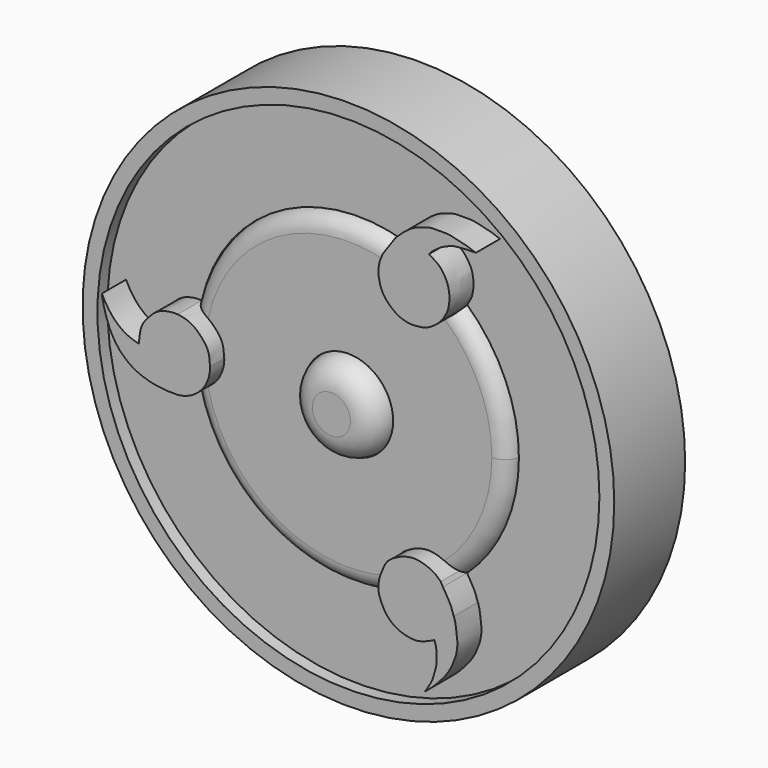
from build123d import *

# Parameters (mm, degrees)
F0_R     = 15
F0_R_2   = 14.1615233279
F1_DEPTH = 5
F0_R_3   = 2.5222476387
F2_DEPTH = 6
F3_DEPTH = 6.2
F4_DEPTH = 4.3
F5_R     = 0.9656854249
F6_R     = 1.4485281374


with BuildPart() as f1:
    # F0 (on Front) → F1 (new body)
    with BuildSketch(Plane.XZ):
        with Locations((15, 15)):
            Circle(F0_R)
        with Locations((15, 15)):
            Circle(F0_R_2, mode=Mode.SUBTRACT)
    extrude(amount=F1_DEPTH)


with BuildPart() as f1b:
    # F0 (on Front) → F1, piece 2 (new body)
    with BuildSketch(Plane.XZ):
        with BuildLine():
            ThreePointArc((21.1342396449, 8.3326901361), (23.2963111747, 11.3595140799), (24.05990711, 15))
            ThreePointArc((24.05990711, 15), (23.2988322445, 18.6347352339), (21.1434753939, 21.6588007124))
            add(Edge.make_bspline(
                [(21.1434753939, 21.6588007124), (21.0909632499, 21.582322312), (20.8999496207, 21.3614984014), (20.6400186062, 21.1489414401), (20.1808751953, 20.8663943789), (19.6299761892, 20.8022110262), (19.1640300214, 20.7877736196), (18.6659923338, 20.9509021399), (18.3099060021, 21.1834855102), (17.9383445578, 21.5183053941), (17.6710449189, 21.9186916745), (17.5654053789, 22.285028639), (17.5023907553, 22.6008993098), (17.4864332586, 22.8343118586), (17.5090441534, 23.1097535755), (17.5627008792, 23.3378128003), (17.6307865632, 23.5283432978), (17.6764725303, 23.6129826876), (17.6848582843, 23.6529447494)],
                knots=[0.3787930569, 0.3787930569, 0.3787930569, 0.3787930569, 0.4178857724, 0.4563800171, 0.5032178203, 0.5513336743, 0.5956308655, 0.6416906778, 0.6840026133, 0.7296126129, 0.7744153941, 0.8143959554, 0.8507215684, 0.8820459047, 0.9158254198, 0.9475100581, 0.9764831481, 1, 1, 1, 1], degree=3))
            ThreePointArc((17.6848582843, 23.6529447494), (10.4721783158, 22.8473401633), (6.1649896644, 17.0061179455))
            add(Edge.make_bspline(
                [(7.9915691167, 15), (7.977574497, 15.2223652288), (7.9513161964, 15.6394216152), (7.7287433735, 16.0768240011), (7.2633799223, 16.5894134835), (6.817404071, 16.876231232), (6.3873761948, 16.9879993623), (6.1649896644, 17.0061179455)],
                knots=[0, 0, 0, 0, 0.0945603236, 0.1773480072, 0.2747751334, 0.3617111934, 0.4578522397, 0.4578522397, 0.4578522397, 0.4578522397], degree=3))
            add(Edge.make_bspline(
                [(6.1610330542, 13.0113873746), (6.2204994677, 13.0150587011), (6.4118762173, 13.0358497334), (6.7916913275, 13.1563396912), (7.1336970438, 13.3361181366), (7.4539294188, 13.6269779573), (7.6121925612, 13.8125335634), (7.7834426937, 14.0757488599), (7.901161921, 14.3795815289), (7.9625023447, 14.601901881), (7.9757539921, 14.7438016498), (7.9998852779, 14.9219594986), (7.9939312166, 14.9778333999), (7.9915691167, 15)],
                knots=[0.7077751773, 0.7077751773, 0.7077751773, 0.7077751773, 0.7245944959, 0.7607474378, 0.7947327689, 0.8294547486, 0.8560583739, 0.8858225869, 0.9168347682, 0.9422101564, 0.9627495743, 0.985221806, 1, 1, 1, 1], degree=3))
            ThreePointArc((6.1610330542, 13.0113873746), (10.472599102, 7.1524170631), (17.7029211105, 6.3526805129))
            add(Edge.make_bspline(
                [(21.0071820766, 8.5633741692), (20.8890209756, 8.6795737374), (20.6368798429, 8.9275291834), (20.0018902624, 9.1654288776), (19.490888747, 9.2582762352), (18.8605992517, 9.1331973897), (18.3914996598, 8.8903599554), (17.9439604331, 8.5997346868), (17.714847467, 8.0638196578), (17.5334547663, 7.6268891329), (17.4617252271, 7.0812372415), (17.5490429642, 6.6777657096), (17.6567623548, 6.4515865282), (17.7029211105, 6.3526805129)],
                knots=[0, 0, 0, 0, 0.0546182256, 0.1165530814, 0.1718470483, 0.231874633, 0.2875661913, 0.3422860592, 0.3994149245, 0.4525150067, 0.5083295921, 0.5572995432, 0.6023974601, 0.6023974601, 0.6023974601, 0.6023974601], degree=3))
            add(Edge.make_bspline(
                [(21.1342396449, 8.3326901361), (21.0910949303, 8.407725515), (21.0481829944, 8.4848293007), (21.0071820766, 8.5633741692)],
                knots=[0.8628140562, 0.8628140562, 0.8628140562, 0.8628140562, 1, 1, 1, 1], degree=3))
        make_face()
        with Locations((15, 15)):
            Circle(F0_R_3, mode=Mode.SUBTRACT)
    extrude(amount=F1_DEPTH)

    # F5
    f5_edges = [f1b.edges().sort_by_distance(p)[0] for p in [
        (24.059905, -5, 14.993721),
        (10.472178, -5, 22.84734),
        (10.472599, -5, 7.152417),
    ]]
    fillet(f5_edges, radius=F5_R)


with BuildPart() as f2:
    # F0 (on Front) → F2 (new body)
    with BuildSketch(Plane.XZ):
        with BuildLine():
            add(Edge.make_bspline(
                [(21.1434753939, 21.6588007124), (21.0909632499, 21.582322312), (20.8999496207, 21.3614984014), (20.6400186062, 21.1489414401), (20.1808751953, 20.8663943789), (19.6299761892, 20.8022110262), (19.1640300214, 20.7877736196), (18.6659923338, 20.9509021399), (18.3099060021, 21.1834855102), (17.9383445578, 21.5183053941), (17.6710449189, 21.9186916745), (17.5654053789, 22.285028639), (17.5023907553, 22.6008993098), (17.4864332586, 22.8343118586), (17.5090441534, 23.1097535755), (17.5627008792, 23.3378128003), (17.6307865632, 23.5283432978), (17.6764725303, 23.6129826876), (17.6848582843, 23.6529447494)],
                knots=[0.3787930569, 0.3787930569, 0.3787930569, 0.3787930569, 0.4178857724, 0.4563800171, 0.5032178203, 0.5513336743, 0.5956308655, 0.6416906778, 0.6840026133, 0.7296126129, 0.7744153941, 0.8143959554, 0.8507215684, 0.8820459047, 0.9158254198, 0.9475100581, 0.9764831481, 1, 1, 1, 1], degree=3))
            ThreePointArc((21.1434753939, 21.6588007124), (19.5253752876, 22.8487511968), (17.6848582843, 23.6529447494))
        make_face()
        with BuildLine():
            ThreePointArc((17.6848582843, 23.6529447494), (19.5253752876, 22.8487511968), (21.1434753939, 21.6588007124))
            add(Edge.make_bspline(
                [(20.3412603587, 24.6070325375), (20.4552778437, 24.5436928641), (20.6651270643, 24.4271160758), (20.8840777366, 24.2647171759), (21.1077879686, 24.0278774163), (21.373132974, 23.5874899979), (21.4512089385, 23.2588333662), (21.5199208408, 22.8783616852), (21.4827041163, 22.5193970504), (21.421137935, 22.1151529264), (21.2171608647, 21.7976458151), (21.1781728827, 21.709333946), (21.1434753939, 21.6588007124)],
                knots=[0, 0, 0, 0, 0.0395550402, 0.0728241458, 0.1097729534, 0.1558660713, 0.1939370538, 0.2334781708, 0.2724537969, 0.3142559039, 0.3529624784, 0.3787930569, 0.3787930569, 0.3787930569, 0.3787930569], degree=3))
            add(Edge.make_bspline(
                [(20.3412603587, 24.6070325375), (20.3720589852, 24.6437247741), (20.4411431917, 24.7260289006), (20.6089449155, 24.8853967296), (20.8304548966, 25.0367740056), (20.9863659557, 25.1554824306), (21.2165467708, 25.270573257), (21.399953219, 25.3385279391), (21.6224005756, 25.4437903694), (21.8970349147, 25.4862938787), (22.2069546049, 25.5033590495), (22.5182269287, 25.5396397474), (22.7990661904, 25.5284073397), (22.9328997881, 25.5351644824), (22.9934379458, 25.5382210016)],
                knots=[0, 0, 0, 0, 0.0660139951, 0.1480755796, 0.23596669, 0.3120503947, 0.3969385731, 0.4727478643, 0.5558311094, 0.6453337924, 0.7402275306, 0.8360781481, 0.925851751, 1, 1, 1, 1], degree=3))
            add(Edge.make_bspline(
                [(22.9934379458, 25.5382210016), (22.9077022632, 25.571213626), (22.7388671697, 25.6361843904), (22.4959550155, 25.7135173656), (22.1681410754, 25.7924196956), (21.778340296, 25.8917146116), (21.36131389, 25.9708824053), (20.8941320437, 25.9685300424), (20.4128677918, 25.9701703784), (19.8961826135, 25.8078538627), (19.4591546167, 25.6421781421), (19.0311502898, 25.3407283449), (18.729190745, 25.0757546891), (18.4135511006, 24.7739438005), (18.2137978843, 24.4538050594), (17.9669377069, 24.1384247773), (17.8045795432, 23.8696321763), (17.7090795999, 23.7255448264), (17.6848582843, 23.6529447494)],
                knots=[0, 0, 0, 0, 0.052089657, 0.1024004804, 0.1602208491, 0.2238762917, 0.2890722734, 0.3571849147, 0.4267180863, 0.4997357341, 0.5686819526, 0.6402668982, 0.7042727666, 0.7695701698, 0.8313825444, 0.8946118932, 0.9508952666, 1, 1, 1, 1], degree=3))
        make_face()
    extrude(amount=F2_DEPTH)


with BuildPart() as f2b:
    # F0 (on Front) → F2, piece 2 (new body)
    with BuildSketch(Plane.XZ):
        with BuildLine():
            ThreePointArc((17.7029211105, 6.3526805129), (19.5281300866, 7.1528377893), (21.1342396449, 8.3326901361))
            add(Edge.make_bspline(
                [(21.1342396449, 8.3326901361), (21.0910949303, 8.407725515), (21.0481829944, 8.4848293007), (21.0071820766, 8.5633741692)],
                knots=[0.8628140562, 0.8628140562, 0.8628140562, 0.8628140562, 1, 1, 1, 1], degree=3))
            add(Edge.make_bspline(
                [(21.0071820766, 8.5633741692), (20.8890209756, 8.6795737374), (20.6368798429, 8.9275291834), (20.0018902624, 9.1654288776), (19.490888747, 9.2582762352), (18.8605992517, 9.1331973897), (18.3914996598, 8.8903599554), (17.9439604331, 8.5997346868), (17.714847467, 8.0638196578), (17.5334547663, 7.6268891329), (17.4617252271, 7.0812372415), (17.5490429642, 6.6777657096), (17.6567623548, 6.4515865282), (17.7029211105, 6.3526805129)],
                knots=[0, 0, 0, 0, 0.0546182256, 0.1165530814, 0.1718470483, 0.231874633, 0.2875661913, 0.3422860592, 0.3994149245, 0.4525150067, 0.5083295921, 0.5572995432, 0.6023974601, 0.6023974601, 0.6023974601, 0.6023974601], degree=3))
        make_face()
        with BuildLine():
            add(Edge.make_bspline(
                [(21.7437501997, 7.0802988485), (21.6948300866, 7.2374523837), (21.5898982362, 7.547127959), (21.3827813895, 7.9174525534), (21.208328454, 8.2038381567), (21.1342396449, 8.3326901361)],
                knots=[0, 0, 0, 0, 0.3132034211, 0.6272361109, 0.8628140562, 0.8628140562, 0.8628140562, 0.8628140562], degree=3))
            ThreePointArc((21.1342396449, 8.3326901361), (19.5281300866, 7.1528377893), (17.7029211105, 6.3526805129))
            add(Edge.make_bspline(
                [(17.7029211105, 6.3526805129), (17.7462518938, 6.2598340947), (17.834410419, 6.066449582), (18.1587820516, 5.6553653269), (18.6584033387, 5.3452502027), (19.1214371077, 5.2237228146), (19.5885537801, 5.1456735697), (20.0473350263, 5.2668743845), (20.4570764341, 5.4337509023), (20.5864049029, 5.5139617526), (20.6388998777, 5.5465199985)],
                knots=[0.6023974601, 0.6023974601, 0.6023974601, 0.6023974601, 0.6447323984, 0.6993418759, 0.7577916586, 0.8104905542, 0.8621882484, 0.91503718, 0.9655145148, 1, 1, 1, 1], degree=3))
            add(Edge.make_bspline(
                [(20.6388998777, 5.5465199985), (20.6787749357, 5.4495664251), (20.7627073712, 5.2452067856), (20.77975689, 4.789335503), (20.7905930857, 4.3662559637), (20.6415118458, 3.8537060945), (20.5140228566, 3.4317355565), (20.4028524458, 3.2711573876), (20.337767899, 3.1649970915)],
                knots=[0, 0, 0, 0, 0.1473615216, 0.3209939888, 0.4918509443, 0.6821725072, 0.8526013203, 1, 1, 1, 1], degree=3))
            add(Edge.make_bspline(
                [(20.337767899, 3.1649970915), (20.3217352253, 3.1335864292), (20.2884250356, 3.0683262522), (20.2153930715, 2.9675734218), (20.1570816793, 2.8695055413), (20.1252344996, 2.815945074)],
                knots=[0, 0, 0, 0, 0.2963413452, 0.6156918435, 1, 1, 1, 1], degree=3))
            add(Edge.make_bspline(
                [(20.1252344996, 2.815945074), (20.1422941797, 2.8288797183), (20.1852378516, 2.8614395853), (20.309228227, 2.9780118451), (20.465714137, 3.0984276611), (20.6515919735, 3.2729316123), (20.8381512596, 3.4652718161), (21.0858109767, 3.7305669022), (21.3455768503, 4.0505705663), (21.6048802317, 4.4724813466), (21.8111023078, 4.9857814795), (21.9052625994, 5.3012453895), (21.9707181589, 5.7908847949), (21.8941632191, 6.3681841491), (21.8352055566, 6.8331444151), (21.7437501997, 7.0802988485)],
                knots=[0, 0, 0, 0, 0.0346595816, 0.0873676582, 0.1458355974, 0.2106728019, 0.2779023955, 0.355450897, 0.4385405157, 0.5307074292, 0.6262455744, 0.7007615712, 0.7896889066, 0.8887420005, 1, 1, 1, 1], degree=3))
        make_face()
    extrude(amount=F2_DEPTH)


with BuildPart() as f2c:
    # F0 (on Front) → F2, piece 3 (new body)
    with BuildSketch(Plane.XZ):
        with BuildLine():
            ThreePointArc((6.1610330542, 13.0113873746), (5.9400973339, 15.0089734469), (6.1649896644, 17.0061179455))
            add(Edge.make_bspline(
                [(6.1649896644, 17.0061179455), (5.943806336, 17.0241384998), (5.5160754155, 16.9807003068), (4.9366734232, 16.7724983508), (4.4898525098, 16.2958347319), (4.1432391181, 15.8793044886), (4.0114089955, 15.3276825057), (3.9915315358, 14.9931847699), (3.9818277583, 14.8298656568)],
                knots=[0.4578522397, 0.4578522397, 0.4578522397, 0.4578522397, 0.5534731237, 0.645654523, 0.7407062899, 0.8280020523, 0.916020769, 1, 1, 1, 1], degree=3))
            add(Edge.make_bspline(
                [(3.9818277583, 14.8298656568), (3.9089127204, 14.8474049982), (3.7509732277, 14.8853965395), (3.4474904484, 14.9959074792), (3.2162189676, 15.1086510892), (2.9983633432, 15.2477460573), (2.8075900404, 15.3976936823), (2.6392916614, 15.5518246254), (2.4997368646, 15.7057725206), (2.3378562567, 15.8948567402), (2.2038984152, 16.0833100139), (2.1239132903, 16.2222783358), (2.0377566293, 16.3626488484), (1.9609414745, 16.5027775524), (1.916238978, 16.6046740514), (1.8936475972, 16.6561696678)],
                knots=[0, 0, 0, 0, 0.0798692905, 0.1730029304, 0.2570215271, 0.3399420089, 0.4211228117, 0.4990669458, 0.5739252344, 0.6562677458, 0.7352630093, 0.8009353737, 0.8670012325, 0.9327861743, 1, 1, 1, 1], degree=3))
            add(Edge.make_bspline(
                [(1.8936475972, 16.6561696678), (1.8965612413, 16.6014082086), (1.901919582, 16.5006990821), (1.9300700953, 16.3929592493), (1.9541318363, 16.2570270654), (1.9914690365, 16.0801892566), (2.0591871426, 15.8273899121), (2.1068682344, 15.6706965501), (2.1693832411, 15.477890963), (2.2543128013, 15.2498128833), (2.3092107774, 15.1042559284), (2.3848966903, 14.9578649635), (2.4754776732, 14.7655556159), (2.5770255924, 14.6051395119), (2.6423073385, 14.4860347537), (2.7508054497, 14.3397067206), (2.8667572988, 14.1875766825), (3.0115134759, 14.0353675438), (3.191101754, 13.8685403893), (3.2964743152, 13.7824732633), (3.4271922963, 13.6718450459), (3.6035789318, 13.5599248478), (3.835633942, 13.4318567944), (4.0549792826, 13.3319276529), (4.4494916719, 13.1906423519), (4.8768883858, 13.0882787352), (5.2637521578, 13.0389254452), (5.4488263299, 13.0175591012), (5.6979533101, 13.0103488669), (5.9556688496, 13.0051412954), (6.1104101978, 13.00826203), (6.1610330542, 13.0113873746)],
                knots=[0, 0, 0, 0, 0.0212080948, 0.0390027719, 0.0585232931, 0.081691404, 0.1090787382, 0.1309003553, 0.1550094794, 0.1815583111, 0.2026731552, 0.2242335075, 0.2491858714, 0.2724949977, 0.2922112113, 0.3148840597, 0.3383717229, 0.3632982166, 0.3897065985, 0.4095606965, 0.4312860579, 0.4560398356, 0.4833966429, 0.5098281503, 0.5442703841, 0.5807811536, 0.613840595, 0.6368226102, 0.6631799362, 0.6934571463, 0.7077751773, 0.7077751773, 0.7077751773, 0.7077751773], degree=3))
        make_face()
        with BuildLine():
            add(Edge.make_bspline(
                [(7.9915691167, 15), (7.977574497, 15.2223652288), (7.9513161964, 15.6394216152), (7.7287433735, 16.0768240011), (7.2633799223, 16.5894134835), (6.817404071, 16.876231232), (6.3873761948, 16.9879993623), (6.1649896644, 17.0061179455)],
                knots=[0, 0, 0, 0, 0.0945603236, 0.1773480072, 0.2747751334, 0.3617111934, 0.4578522397, 0.4578522397, 0.4578522397, 0.4578522397], degree=3))
            ThreePointArc((6.1649896644, 17.0061179455), (5.9400973339, 15.0089734469), (6.1610330542, 13.0113873746))
            add(Edge.make_bspline(
                [(6.1610330542, 13.0113873746), (6.2204994677, 13.0150587011), (6.4118762173, 13.0358497334), (6.7916913275, 13.1563396912), (7.1336970438, 13.3361181366), (7.4539294188, 13.6269779573), (7.6121925612, 13.8125335634), (7.7834426937, 14.0757488599), (7.901161921, 14.3795815289), (7.9625023447, 14.601901881), (7.9757539921, 14.7438016498), (7.9998852779, 14.9219594986), (7.9939312166, 14.9778333999), (7.9915691167, 15)],
                knots=[0.7077751773, 0.7077751773, 0.7077751773, 0.7077751773, 0.7245944959, 0.7607474378, 0.7947327689, 0.8294547486, 0.8560583739, 0.8858225869, 0.9168347682, 0.9422101564, 0.9627495743, 0.985221806, 1, 1, 1, 1], degree=3))
        make_face()
    extrude(amount=F2_DEPTH)


with BuildPart() as f3:
    # F0 (on Front) → F3 (new body)
    with BuildSketch(Plane.XZ):
        with Locations((15, 15)):
            Circle(F0_R_3)
    extrude(amount=F3_DEPTH)

    # F6
    f6_edges = [f3.edges().sort_by_distance(p)[0] for p in [
        (12.477752, -6.2, 15),
    ]]
    fillet(f6_edges, radius=F6_R)


with BuildPart() as f4:
    # F0 (on Front) → F4 (new body)
    with BuildSketch(Plane.XZ):
        with Locations((15, 15)):
            Circle(F0_R_2)
        with BuildLine():
            ThreePointArc((21.1434753939, 21.6588007124), (23.2988322445, 18.6347352339), (24.05990711, 15))
            ThreePointArc((24.05990711, 15), (23.2963111747, 11.3595140799), (21.1342396449, 8.3326901361))
            add(Edge.make_bspline(
                [(21.7437501997, 7.0802988485), (21.6948300866, 7.2374523837), (21.5898982362, 7.547127959), (21.3827813895, 7.9174525534), (21.208328454, 8.2038381567), (21.1342396449, 8.3326901361)],
                knots=[0, 0, 0, 0, 0.3132034211, 0.6272361109, 0.8628140562, 0.8628140562, 0.8628140562, 0.8628140562], degree=3))
            add(Edge.make_bspline(
                [(20.1252344996, 2.815945074), (20.1422941797, 2.8288797183), (20.1852378516, 2.8614395853), (20.309228227, 2.9780118451), (20.465714137, 3.0984276611), (20.6515919735, 3.2729316123), (20.8381512596, 3.4652718161), (21.0858109767, 3.7305669022), (21.3455768503, 4.0505705663), (21.6048802317, 4.4724813466), (21.8111023078, 4.9857814795), (21.9052625994, 5.3012453895), (21.9707181589, 5.7908847949), (21.8941632191, 6.3681841491), (21.8352055566, 6.8331444151), (21.7437501997, 7.0802988485)],
                knots=[0, 0, 0, 0, 0.0346595816, 0.0873676582, 0.1458355974, 0.2106728019, 0.2779023955, 0.355450897, 0.4385405157, 0.5307074292, 0.6262455744, 0.7007615712, 0.7896889066, 0.8887420005, 1, 1, 1, 1], degree=3))
            add(Edge.make_bspline(
                [(20.337767899, 3.1649970915), (20.3217352253, 3.1335864292), (20.2884250356, 3.0683262522), (20.2153930715, 2.9675734218), (20.1570816793, 2.8695055413), (20.1252344996, 2.815945074)],
                knots=[0, 0, 0, 0, 0.2963413452, 0.6156918435, 1, 1, 1, 1], degree=3))
            add(Edge.make_bspline(
                [(20.6388998777, 5.5465199985), (20.6787749357, 5.4495664251), (20.7627073712, 5.2452067856), (20.77975689, 4.789335503), (20.7905930857, 4.3662559637), (20.6415118458, 3.8537060945), (20.5140228566, 3.4317355565), (20.4028524458, 3.2711573876), (20.337767899, 3.1649970915)],
                knots=[0, 0, 0, 0, 0.1473615216, 0.3209939888, 0.4918509443, 0.6821725072, 0.8526013203, 1, 1, 1, 1], degree=3))
            add(Edge.make_bspline(
                [(17.7029211105, 6.3526805129), (17.7462518938, 6.2598340947), (17.834410419, 6.066449582), (18.1587820516, 5.6553653269), (18.6584033387, 5.3452502027), (19.1214371077, 5.2237228146), (19.5885537801, 5.1456735697), (20.0473350263, 5.2668743845), (20.4570764341, 5.4337509023), (20.5864049029, 5.5139617526), (20.6388998777, 5.5465199985)],
                knots=[0.6023974601, 0.6023974601, 0.6023974601, 0.6023974601, 0.6447323984, 0.6993418759, 0.7577916586, 0.8104905542, 0.8621882484, 0.91503718, 0.9655145148, 1, 1, 1, 1], degree=3))
            ThreePointArc((17.7029211105, 6.3526805129), (10.472599102, 7.1524170631), (6.1610330542, 13.0113873746))
            add(Edge.make_bspline(
                [(1.8936475972, 16.6561696678), (1.8965612413, 16.6014082086), (1.901919582, 16.5006990821), (1.9300700953, 16.3929592493), (1.9541318363, 16.2570270654), (1.9914690365, 16.0801892566), (2.0591871426, 15.8273899121), (2.1068682344, 15.6706965501), (2.1693832411, 15.477890963), (2.2543128013, 15.2498128833), (2.3092107774, 15.1042559284), (2.3848966903, 14.9578649635), (2.4754776732, 14.7655556159), (2.5770255924, 14.6051395119), (2.6423073385, 14.4860347537), (2.7508054497, 14.3397067206), (2.8667572988, 14.1875766825), (3.0115134759, 14.0353675438), (3.191101754, 13.8685403893), (3.2964743152, 13.7824732633), (3.4271922963, 13.6718450459), (3.6035789318, 13.5599248478), (3.835633942, 13.4318567944), (4.0549792826, 13.3319276529), (4.4494916719, 13.1906423519), (4.8768883858, 13.0882787352), (5.2637521578, 13.0389254452), (5.4488263299, 13.0175591012), (5.6979533101, 13.0103488669), (5.9556688496, 13.0051412954), (6.1104101978, 13.00826203), (6.1610330542, 13.0113873746)],
                knots=[0, 0, 0, 0, 0.0212080948, 0.0390027719, 0.0585232931, 0.081691404, 0.1090787382, 0.1309003553, 0.1550094794, 0.1815583111, 0.2026731552, 0.2242335075, 0.2491858714, 0.2724949977, 0.2922112113, 0.3148840597, 0.3383717229, 0.3632982166, 0.3897065985, 0.4095606965, 0.4312860579, 0.4560398356, 0.4833966429, 0.5098281503, 0.5442703841, 0.5807811536, 0.613840595, 0.6368226102, 0.6631799362, 0.6934571463, 0.7077751773, 0.7077751773, 0.7077751773, 0.7077751773], degree=3))
            add(Edge.make_bspline(
                [(3.9818277583, 14.8298656568), (3.9089127204, 14.8474049982), (3.7509732277, 14.8853965395), (3.4474904484, 14.9959074792), (3.2162189676, 15.1086510892), (2.9983633432, 15.2477460573), (2.8075900404, 15.3976936823), (2.6392916614, 15.5518246254), (2.4997368646, 15.7057725206), (2.3378562567, 15.8948567402), (2.2038984152, 16.0833100139), (2.1239132903, 16.2222783358), (2.0377566293, 16.3626488484), (1.9609414745, 16.5027775524), (1.916238978, 16.6046740514), (1.8936475972, 16.6561696678)],
                knots=[0, 0, 0, 0, 0.0798692905, 0.1730029304, 0.2570215271, 0.3399420089, 0.4211228117, 0.4990669458, 0.5739252344, 0.6562677458, 0.7352630093, 0.8009353737, 0.8670012325, 0.9327861743, 1, 1, 1, 1], degree=3))
            add(Edge.make_bspline(
                [(6.1649896644, 17.0061179455), (5.943806336, 17.0241384998), (5.5160754155, 16.9807003068), (4.9366734232, 16.7724983508), (4.4898525098, 16.2958347319), (4.1432391181, 15.8793044886), (4.0114089955, 15.3276825057), (3.9915315358, 14.9931847699), (3.9818277583, 14.8298656568)],
                knots=[0.4578522397, 0.4578522397, 0.4578522397, 0.4578522397, 0.5534731237, 0.645654523, 0.7407062899, 0.8280020523, 0.916020769, 1, 1, 1, 1], degree=3))
            ThreePointArc((6.1649896644, 17.0061179455), (10.4721783158, 22.8473401633), (17.6848582843, 23.6529447494))
            add(Edge.make_bspline(
                [(22.9934379458, 25.5382210016), (22.9077022632, 25.571213626), (22.7388671697, 25.6361843904), (22.4959550155, 25.7135173656), (22.1681410754, 25.7924196956), (21.778340296, 25.8917146116), (21.36131389, 25.9708824053), (20.8941320437, 25.9685300424), (20.4128677918, 25.9701703784), (19.8961826135, 25.8078538627), (19.4591546167, 25.6421781421), (19.0311502898, 25.3407283449), (18.729190745, 25.0757546891), (18.4135511006, 24.7739438005), (18.2137978843, 24.4538050594), (17.9669377069, 24.1384247773), (17.8045795432, 23.8696321763), (17.7090795999, 23.7255448264), (17.6848582843, 23.6529447494)],
                knots=[0, 0, 0, 0, 0.052089657, 0.1024004804, 0.1602208491, 0.2238762917, 0.2890722734, 0.3571849147, 0.4267180863, 0.4997357341, 0.5686819526, 0.6402668982, 0.7042727666, 0.7695701698, 0.8313825444, 0.8946118932, 0.9508952666, 1, 1, 1, 1], degree=3))
            add(Edge.make_bspline(
                [(20.3412603587, 24.6070325375), (20.3720589852, 24.6437247741), (20.4411431917, 24.7260289006), (20.6089449155, 24.8853967296), (20.8304548966, 25.0367740056), (20.9863659557, 25.1554824306), (21.2165467708, 25.270573257), (21.399953219, 25.3385279391), (21.6224005756, 25.4437903694), (21.8970349147, 25.4862938787), (22.2069546049, 25.5033590495), (22.5182269287, 25.5396397474), (22.7990661904, 25.5284073397), (22.9328997881, 25.5351644824), (22.9934379458, 25.5382210016)],
                knots=[0, 0, 0, 0, 0.0660139951, 0.1480755796, 0.23596669, 0.3120503947, 0.3969385731, 0.4727478643, 0.5558311094, 0.6453337924, 0.7402275306, 0.8360781481, 0.925851751, 1, 1, 1, 1], degree=3))
            add(Edge.make_bspline(
                [(20.3412603587, 24.6070325375), (20.4552778437, 24.5436928641), (20.6651270643, 24.4271160758), (20.8840777366, 24.2647171759), (21.1077879686, 24.0278774163), (21.373132974, 23.5874899979), (21.4512089385, 23.2588333662), (21.5199208408, 22.8783616852), (21.4827041163, 22.5193970504), (21.421137935, 22.1151529264), (21.2171608647, 21.7976458151), (21.1781728827, 21.709333946), (21.1434753939, 21.6588007124)],
                knots=[0, 0, 0, 0, 0.0395550402, 0.0728241458, 0.1097729534, 0.1558660713, 0.1939370538, 0.2334781708, 0.2724537969, 0.3142559039, 0.3529624784, 0.3787930569, 0.3787930569, 0.3787930569, 0.3787930569], degree=3))
        make_face(mode=Mode.SUBTRACT)
    extrude(amount=F4_DEPTH)


solid = Compound([f1.part, f1b.part, f2.part, f2b.part, f2c.part, f3.part, f4.part])
